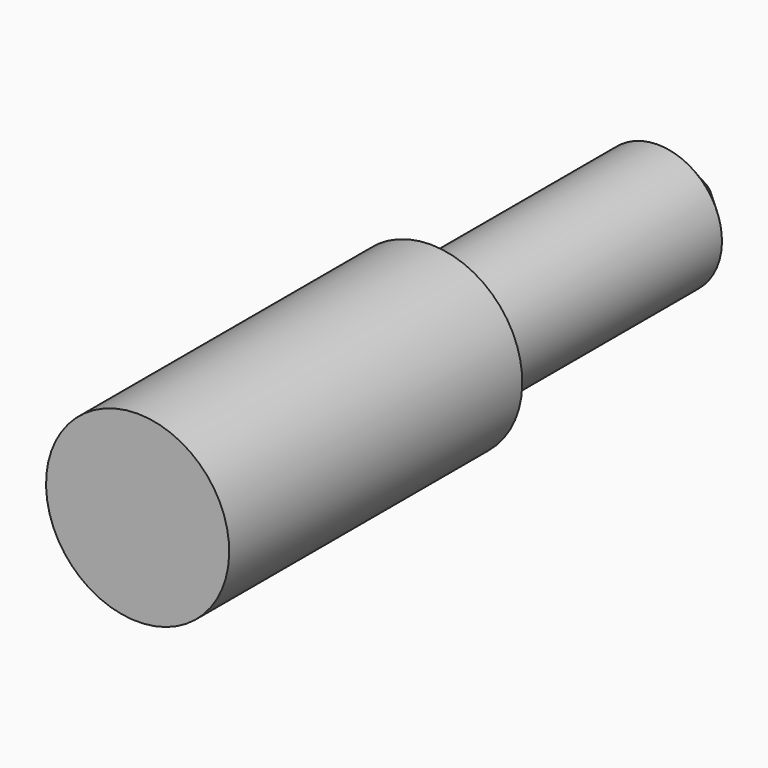
from build123d import *

# Parameters (mm, degrees)
F2_SIZE = 4.5


with BuildPart() as f1:
    # F0 (on Right) → F1 (revolve)
    with BuildSketch(Plane.YZ):
        Polygon((0, 8), (0, 0), (61.3, 0), (61.3, 5.6), (32, 5.6), (32, 8), align=None)
    revolve(axis=Axis((0, 30.65, 0), (0, -1, 0)))

    # F2
    f2_edges = [f1.edges().sort_by_distance(p)[0] for p in [
        (0, 61.3, -5.6),
    ]]
    chamfer(f2_edges, length=F2_SIZE)


solid = f1.part
